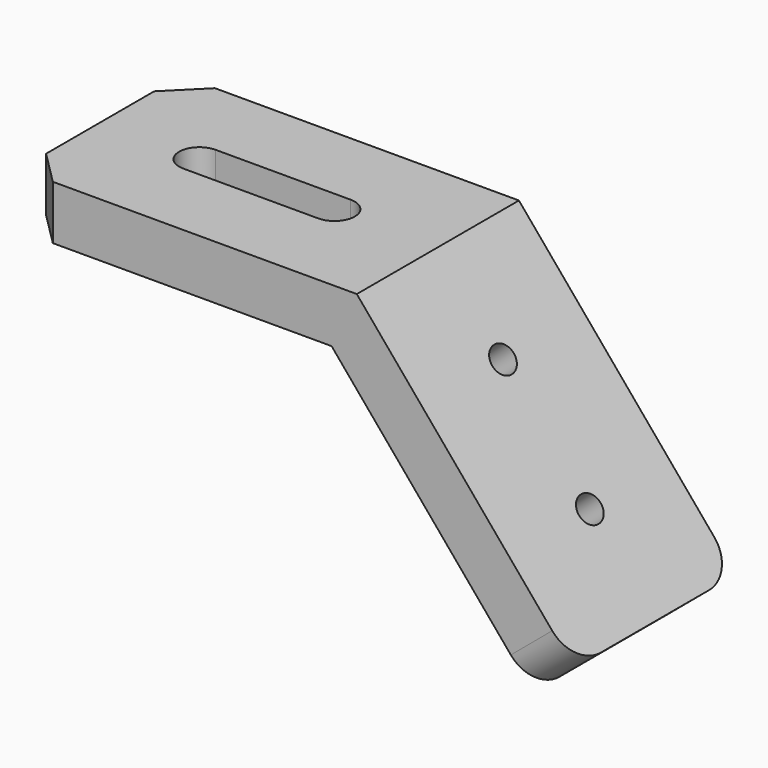
from build123d import *

# Parameters (mm, degrees)
F1_DEPTH = 15
F3_DEPTH = 43.4455230334
F5_D     = 4
F6_R     = 5
F7_SIZE  = 5


with BuildPart() as f1:
    # F0 (on Front) → F1 (new body, symmetric)
    with BuildSketch(Plane.XZ):
        Polygon((0, 8), (0, 0), (46.2695387348, 0), (76.0110249394, -35.4445230334), (82.1393804843, -30.3022221559), (50, 8), align=None)
    extrude(amount=F1_DEPTH, both=True)

    # F2 (on face) → F3 (cut, through all)
    with BuildSketch(Plane.XY.offset(8)):
        with BuildLine():
            ThreePointArc((14.6969384567, 3), (11.6969384567, 0), (14.6969384567, -3))
            Line((14.6969384567, -3), (34.6969384567, -3))
            ThreePointArc((34.6969384567, -3), (37.6969384567, 0), (34.6969384567, 3))
            Line((34.6969384567, 3), (14.6969384567, 3))
        make_face()
    extrude(amount=-F3_DEPTH, mode=Mode.SUBTRACT)

    # F5 (through all)
    with Locations(Plane(origin=(33.2804354537, 0, 27.9256011146), x_dir=(0, 1, 0), z_dir=(0.7660444431, 0, 0.6427876097))):
        with Locations((0, -41.0110249394), (0, -61.0110249394)):
            Hole(F5_D / 2)

    # F6
    f6_edges = [f1.edges().sort_by_distance(p)[0] for p in [
        (79.075203, -15, -32.873373),
        (79.075203, 15, -32.873373),
    ]]
    fillet(f6_edges, radius=F6_R)

    # F7
    f7_edges = [f1.edges().sort_by_distance(p)[0] for p in [
        (0, -15, 4),
        (0, 15, 4),
    ]]
    chamfer(f7_edges, length=F7_SIZE)


solid = f1.part
